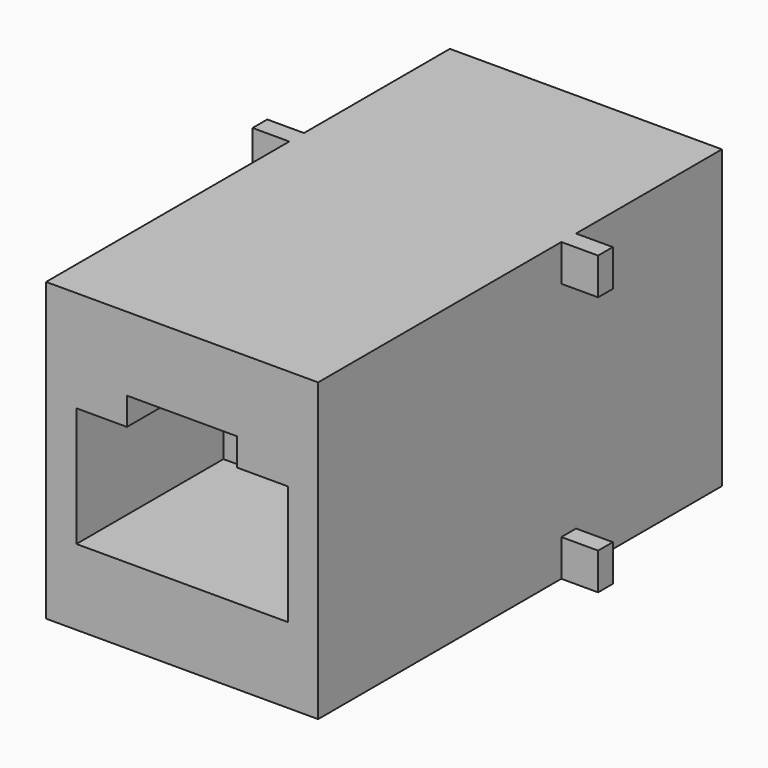
from build123d import *

# Parameters (mm, degrees)
F1_DEPTH      = 17.54
F1_DEPTH_BACK = 9.92
F0_W          = 2
F0_H          = 2
F2_DEPTH      = 1
F4_DEPTH      = 10
F6_DEPTH      = 10


with BuildPart() as f1:
    # F0 (on Front) → F1 (new body, two sides)
    with BuildSketch(Plane.XZ) as f1_sk:
        Polygon((7.4, 8.065), (-7.4, 8.065), (-7.4, 6.065), (-7.4, -6.065), (-7.4, -8.065), (7.4, -8.065), (7.4, -6.065), (7.4, 6.065), align=None)
    extrude(amount=F1_DEPTH)
    extrude(f1_sk.sketch, amount=-F1_DEPTH_BACK)

    # F0 (on Front) → F2 (join)
    with BuildSketch(Plane.XZ):
        with Locations((-8.4, 7.065)):
            Rectangle(F0_W, F0_H)
        with Locations((-8.4, -7.065)):
            Rectangle(F0_W, F0_H)
        with Locations((8.4, -7.065)):
            Rectangle(F0_W, F0_H)
        with Locations((8.4, 7.065)):
            Rectangle(F0_W, F0_H)
    extrude(amount=F2_DEPTH)

    # F3 (on face) → F4 (cut)
    with BuildSketch(Plane.XZ.offset(17.54)):
        Polygon((-5.75, -3.950203), (0, -3.950203), (5.75, -3.950203), (5.75, 2.549797), (3, 2.549797), (3, 4.049797), (0, 4.049797), (-3, 4.049797), (-3, 2.549797), (-5.75, 2.549797), align=None)
    extrude(amount=-F4_DEPTH, mode=Mode.SUBTRACT)

    # F5 (on face) → F6 (cut)
    with BuildSketch(Plane(origin=(0, 9.92, 0), x_dir=(-1, 0, 0), z_dir=(0, 1, 0))):
        Polygon((-5.668929, -3.996807), (0.081071, -3.996807), (5.831071, -3.996807), (5.831071, 2.503193), (3.081071, 2.503193), (3.081071, 4.003193), (0.081071, 4.003193), (-2.918929, 4.003193), (-2.918929, 2.503193), (-5.668929, 2.503193), align=None)
    extrude(amount=-F6_DEPTH, mode=Mode.SUBTRACT)


solid = f1.part
